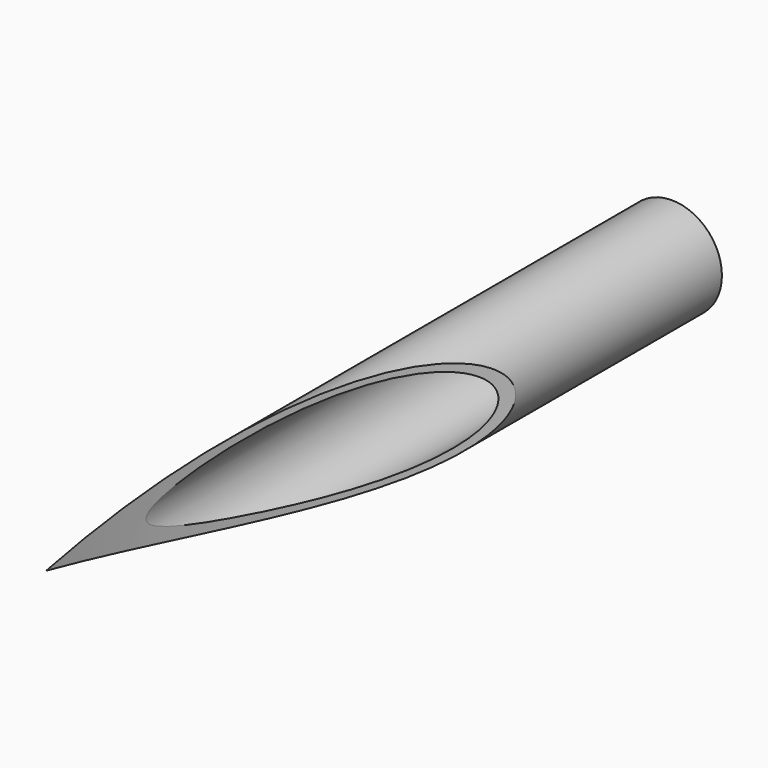
from build123d import *

# Parameters (mm, degrees)
F0_R          = 44.45
F0_R_2        = 38.9636
F1_DEPTH      = 638.175
F2_R          = 987.552
F3_DEPTH      = 44.451
F3_DEPTH_BACK = 44.451


with BuildPart() as f1:
    # F0 (on Front) → F1 (new body)
    with BuildSketch(Plane.XZ):
        Circle(F0_R)
        Circle(F0_R_2, mode=Mode.SUBTRACT)
    extrude(amount=F1_DEPTH)

    # F2 (on Top) → F3 (cut, two sides)
    with BuildSketch(Plane.XY) as f3_sk:
        with Locations((943.102, -638.175)):
            Circle(F2_R)
    extrude(amount=-F3_DEPTH, mode=Mode.SUBTRACT)
    extrude(f3_sk.sketch, amount=F3_DEPTH_BACK, mode=Mode.SUBTRACT)


solid = f1.part
